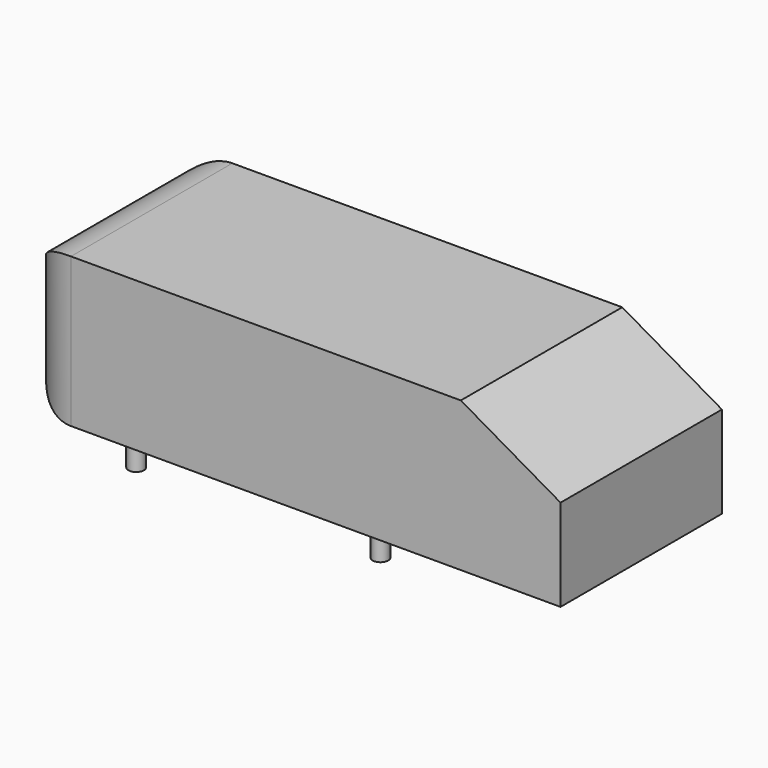
from build123d import *

# Parameters (mm, degrees)
F0_W     = 1044
F0_H     = 389
F1_DEPTH = 288
F3_DEPTH = 389
F4_R     = 100
F5_R     = 15
F6_DEPTH = 50


with BuildPart() as f1:
    # F0 (on Top) → F1 (new body)
    with BuildSketch(Plane.XY):
        Rectangle(F0_W, F0_H)
    extrude(amount=F1_DEPTH)

    # F2 (on face) → F3 (cut, through all)
    with BuildSketch(Plane.XZ.offset(194.5)):
        Polygon((522, 288), (329.74236, 288), (522, 177), align=None)
    extrude(amount=-F3_DEPTH, mode=Mode.SUBTRACT)

    # F4
    f4_edges = [f1.edges().sort_by_distance(p)[0] for p in [
        (-522, 194.5, 144),
        (-522, -194.5, 144),
        (-522, 0, 0),
        (-522, 0, 288),
    ]]
    fillet(f4_edges, radius=F4_R)

    # F5 (on face) → F6 (join)
    with BuildSketch(Plane(origin=(0, 0, 0), x_dir=(1, 0, 0), z_dir=(0, 0, -1))):
        with Locations((150, 163.5)):
            Circle(F5_R)
        with Locations((-321, 163.5)):
            Circle(F5_R)
        with Locations((-321, -163.5)):
            Circle(F5_R)
        with Locations((150, -163.5)):
            Circle(F5_R)
    extrude(amount=F6_DEPTH)


with BuildPart() as f1_1:
    # F7: moved
    add(f1.part.moved(Location((0, 0, 50))))


solid = f1_1.part
